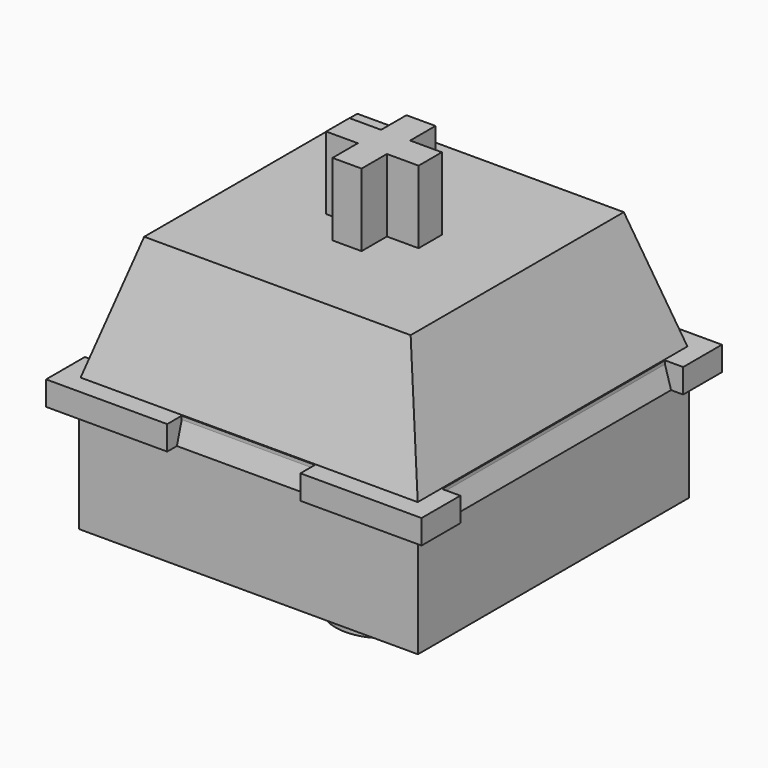
from build123d import *

# Parameters (mm, degrees)
BOX017_W          = 14
BOX017_H          = 14
BOX017_DEPTH      = 4.5
CYLINDER095_R     = 2
CYLINDER095_DEPTH = 8
PAD089_DEPTH      = 1
SKETCH155_W       = 14.5
SKETCH155_H       = 14.5
SKETCH156_W       = 11
SKETCH156_H       = 11
PAD090_DEPTH      = 9
SKETCH158_W       = 7.5
SKETCH158_H       = 6
PAD092_DEPTH      = 1


with BuildPart() as part:
    # Box017 → Box017 (join)
    with BuildSketch(Plane(origin=(7, -7, 0), x_dir=(-1, 0, 0), z_dir=(0, 0, -1))):
        with Locations((7, 7)):
            Rectangle(BOX017_W, BOX017_H)
    extrude(amount=BOX017_DEPTH)

    # Cylinder095 → Cylinder095 (join)
    with BuildSketch(Plane(origin=(0, 0, 0), x_dir=(-1, 0, 0), z_dir=(0, 0, -1))):
        Circle(CYLINDER095_R)
    extrude(amount=CYLINDER095_DEPTH)

    # Sketch154 → Pad089 (join)
    with BuildSketch(Plane.XY):
        Polygon((-7.75, 5.75), (-7.75, 7.75), (-2.75, 7.75), (-2.75, 7), (2.75, 7), (2.75, 7.75), (7.75, 7.75), (7.75, 5.75), (7, 5.75), (7, -5.75), (7.75, -5.75), (7.75, -7.75), (2.75, -7.75), (2.75, -7), (-2.75, -7), (-2.75, -7.75), (-7.75, -7.75), (-7.75, -5.75), (-7, -5.75), (-7, 5.75), align=None)
    extrude(amount=PAD089_DEPTH)

    # Sketch155 → AdditiveLoft002 section 0
    with BuildSketch(Plane.XY):
        Rectangle(SKETCH155_W, SKETCH155_H)
    # Sketch156 → AdditiveLoft002 section 1
    with BuildSketch(Plane.XY.offset(6)):
        Rectangle(SKETCH156_W, SKETCH156_H)
    loft()

    # Sketch157 → Pad090 (join)
    with BuildSketch(Plane.XY):
        Polygon((-0.6, 1.907878), (0.6, 1.907878), (0.6, 0.6), (1.907878, 0.6), (1.907878, -0.6), (0.6, -0.6), (0.6, -1.907878), (-0.6, -1.907878), (-0.6, -0.6), (-1.907878, -0.6), (-1.907878, 0.6), (-0.6, 0.6), align=None)
    extrude(amount=PAD090_DEPTH)

    # Sketch158 → Pad092 (join)
    with BuildSketch(Plane.XY.offset(5)):
        Rectangle(SKETCH158_W, SKETCH158_H)
    extrude(amount=PAD092_DEPTH)


with BuildPart() as part_1:
    # Body144 placement: moved
    add(part.part.moved(Location((15, 0, -10))))


solid = part_1.part
